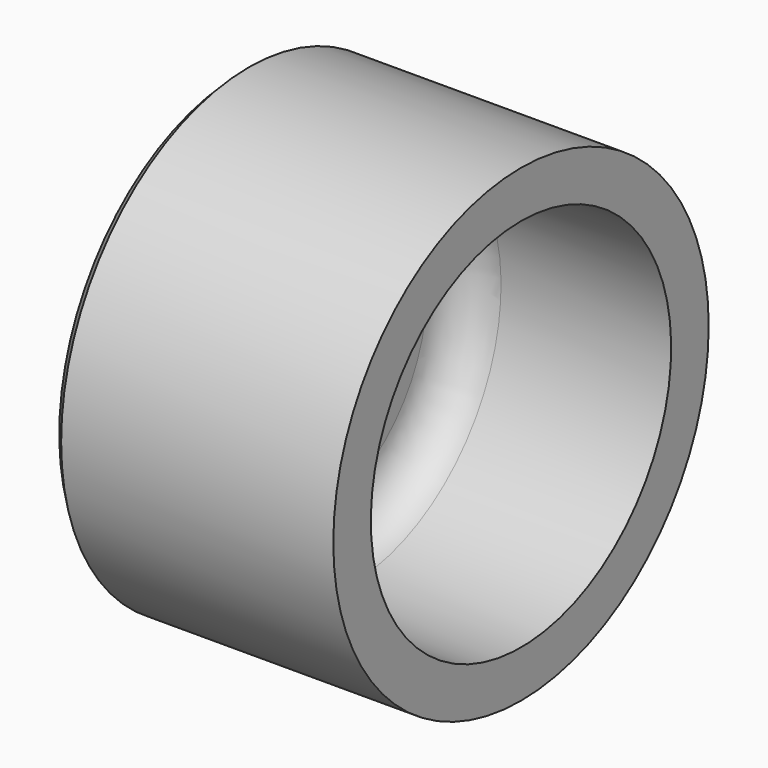
from build123d import *

# Parameters (mm, degrees)
F2_SIZE = 5.08
F3_SIZE = 2.54


with BuildPart() as f1:
    # F0 (on Front) → F1 (revolve)
    with BuildSketch(Plane.XZ):
        with BuildLine():
            Line((0, 101.6), (0, 127))
            Line((0, 127), (-152.4, 127))
            Line((-152.4, 127), (-152.4, 48.26))
            Line((-152.4, 48.26), (-114.3, 48.26))
            Line((-114.3, 48.26), (-114.3, 79.375))
            ThreePointArc((-114.3, 79.375), (-107.790448, 95.090448), (-92.075, 101.6))
            Line((-92.075, 101.6), (0, 101.6))
        make_face()
    revolve(axis=Axis((-71.717651, 0, 0), (-1, 0, 0)))

    # F2
    f2_edges = [f1.edges().sort_by_distance(p)[0] for p in [
        (-152.4, 0, -127),
    ]]
    chamfer(f2_edges, length=F2_SIZE)

    # F3
    f3_edges = [f1.edges().sort_by_distance(p)[0] for p in [
        (-152.4, 0, -48.26),
        (-114.3, 0, -48.26),
        (-133.35, 0, 48.26),
    ]]
    chamfer(f3_edges, length=F3_SIZE)


solid = f1.part
